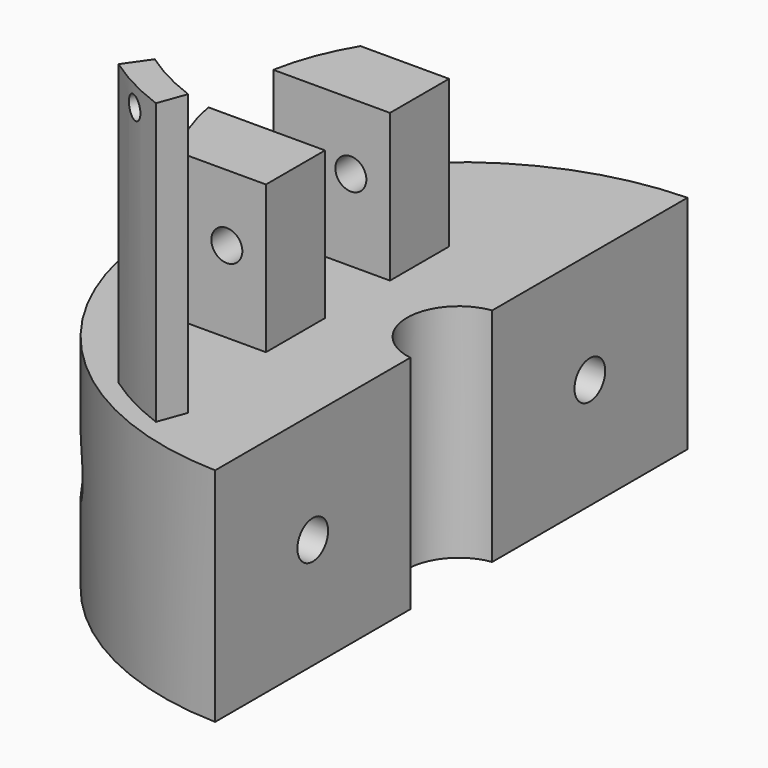
from build123d import *

# Parameters (mm, degrees)
PAD004_DEPTH    = 30
PAD005_DEPTH    = 20
SKETCH019_R     = 2.1
POCKET007_DEPTH = 55.4884980464
SKETCH020_R     = 2.6
POCKET008_DEPTH = 39.001
SKETCH021_R     = 4.75
POCKET009_DEPTH = 9.5
PAD007_DEPTH    = 38
SKETCH026_R     = 1.5
POCKET012_DEPTH = 4


with BuildPart() as part:
    # Sketch017 (on DatumPlane) → Pad004 (new body)
    with BuildSketch(Plane(origin=(0, 0, -127.29162), x_dir=(1, 0, 0), z_dir=(0, 0, -1))):
        with BuildLine():
            ThreePointArc((-1, 6.9282032303), (-7, 0), (-1, -6.9282032303))
            Line((-1, -6.9282032303), (-1, -39.9874980463))
            ThreePointArc((-1, 39.9874980463), (-40, 0), (-1, -39.9874980463))
            Line((-1, 6.9282032303), (-1, 39.9874980463))
        make_face()
    extrude(amount=PAD004_DEPTH)

    # Sketch018 (on Face5 of Pad004) → Pad005 (join)
    with BuildSketch(Plane.XY.offset(-127.29162)):
        with BuildLine():
            ThreePointArc((-29.5109069739, -5.5), (-28.0584714971, -10.6707922701), (-25.7078515326, -15.5))
            Line((-25.7078515327, -15.5), (-13.7078515327, -15.5))
            Line((-13.7078515327, -15.5), (-13.7078515327, -5.5))
            Line((-13.7078515327, -5.5), (-29.5109069739, -5.5))
        make_face()
    pad005 = extrude(amount=PAD005_DEPTH)

    # Mirrored: Pad005 across Sketch018 H_Axis
    add(pad005.mirror(Plane(origin=(0, 0, -127.29162), x_dir=(0, 0, 1), z_dir=(0, 1, 0))))

    # Sketch019 (on Face10 of Mirrored) → Pocket007 (cut, through all)
    with BuildSketch(Plane(origin=(0, -15.5, -127.29162), x_dir=(-1, 0, 0), z_dir=(0, -1, 0))):
        with Locations((19.005882937, -11)):
            Circle(SKETCH019_R)
    extrude(amount=-POCKET007_DEPTH, mode=Mode.SUBTRACT)

    # Sketch020 (on Face2 of Pocket007) → Pocket008 (cut, through all)
    with BuildSketch(Plane(origin=(-1, 0, -127.29162), x_dir=(0, -1, 0), z_dir=(1, 0, 0))):
        with Locations((-23.4578506383, 15)):
            Circle(SKETCH020_R)
        with Locations((23.4578506383, 15)):
            Circle(SKETCH020_R)
    extrude(amount=-POCKET008_DEPTH, mode=Mode.SUBTRACT)

    # Sketch021 (on DatumPlane) → Pocket009 (cut, symmetric)
    with BuildSketch(Plane(origin=(-33, -23.4578506383, -142.29162), x_dir=(0, 0, 1), z_dir=(1, 0, 0))):
        with Locations((0, -46.9157012765)):
            Circle(SKETCH021_R)
        Circle(SKETCH021_R)
    extrude(amount=POCKET009_DEPTH, both=True, mode=Mode.SUBTRACT)

    # Sketch025 (on DatumPlane) → Pad007 (join)
    with BuildSketch(Plane(origin=(0, 0, -127.29162), x_dir=(1, 0, 0), z_dir=(0, 0, -1))):
        with BuildLine():
            Line((-12.8257553747, 35.2384732795), (-11.4576748014, 31.4797027963))
            ThreePointArc((-11.4576748014, 31.4797027963), (-15.4685785433, 29.7148629115), (-19.2148106176, 27.4415934838))
            Line((-21.509116363, 30.7182016609), (-19.2148106176, 27.4415934838))
            ThreePointArc((-12.8257553747, 35.2384732795), (-17.3155729962, 33.2629062442), (-21.509116363, 30.7182016609))
        make_face()
    extrude(amount=-PAD007_DEPTH)

    # Sketch026 (on DatumPlane) → Pocket012 (cut, symmetric)
    with BuildSketch(Plane(origin=(-17.2661657333, -33.1679957752, -108.29162), x_dir=(0.8870108332, -0.4617486132, 0), z_dir=(0.4617486132, 0.8870108332, 0))):
        with Locations((0, -16.226432)):
            Circle(SKETCH026_R)
    extrude(amount=POCKET012_DEPTH, both=True, mode=Mode.SUBTRACT)


solid = part.part
